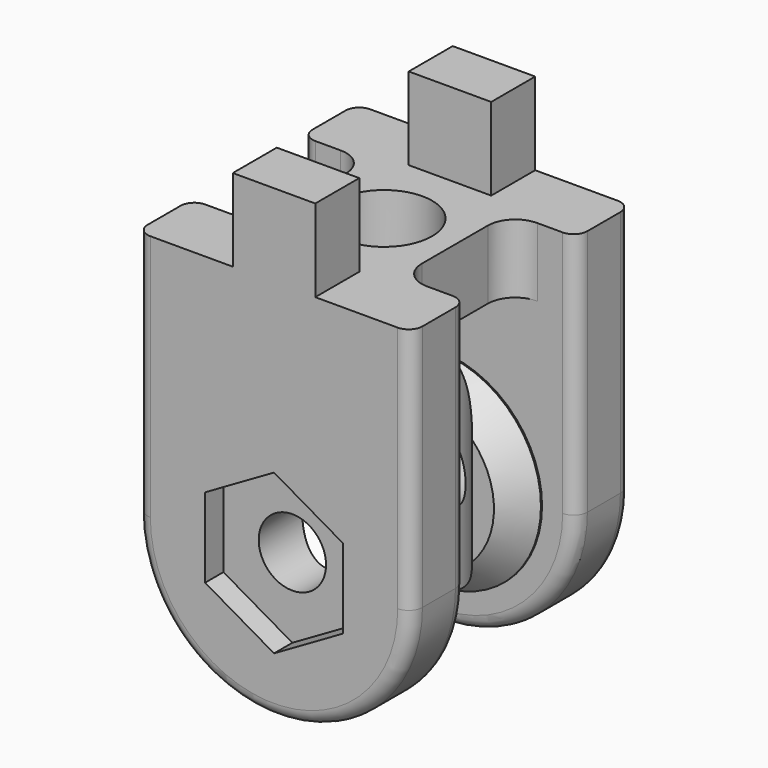
from build123d import *

# Parameters (mm, degrees)
CYLINDER006_R            = 2.45
CYLINDER006_DEPTH        = 1000
PRISM_DEPTH              = 5
CYLINDER005_R            = 5
CYLINDER005_DEPTH        = 1000
CYLINDER003_R            = 10
CYLINDER003_DEPTH        = 5
CYLINDER004_R            = 7.5
CYLINDER004_DEPTH        = 7
CUBE008_W                = 20
CUBE008_H                = 5
CUBE008_DEPTH            = 13
UNION001_PLACEMENT_ANGLE = 180
CYLINDER001_R            = 10
CYLINDER001_DEPTH        = 5
CYLINDER002_R            = 7.5
CYLINDER002_DEPTH        = 7
CUBE007_W                = 20
CUBE007_H                = 5
CUBE007_DEPTH            = 13
CUBE006_W                = 100
CUBE006_H                = 10
CUBE006_DEPTH            = 100
CUBE005_W                = 100
CUBE005_H                = 10
CUBE005_DEPTH            = 100
CUBE002_W                = 4
CUBE002_H                = 6
CUBE002_DEPTH            = 11
CUBE003_W                = 4
CUBE003_H                = 6
CUBE003_DEPTH            = 11
CUBE004_W                = 4
CUBE004_H                = 6
CUBE004_DEPTH            = 11
CUBE001_W                = 4
CUBE001_H                = 6
CUBE001_DEPTH            = 11
CYLINDER_R               = 3.5
CYLINDER_DEPTH           = 100
CUBE_W                   = 20
CUBE_H                   = 20
CUBE_DEPTH               = 5
CHAMFER_SIZE             = 1.9
CHAMFER001_SIZE          = 1.9
CHAMFER002_SIZE          = 1.9
CHAMFER003_SIZE          = 1.9
FILLET_R                 = 2
FILLET001_R              = 2
FILLET002_R              = 2
FILLET003_R              = 2
FILLET004_R              = 1
FILLET005_R              = 1
FILLET006_R              = 1
FILLET007_R              = 1


with BuildPart() as cylinder006:
    # cylinder006 → cylinder006 (new body)
    with BuildSketch(Plane(origin=(0, 500, -13), x_dir=(1, 0, 0), z_dir=(0, -1, 0))):
        Circle(CYLINDER006_R)
    extrude(amount=CYLINDER006_DEPTH)


with BuildPart() as prism:
    # prism → prism (new body)
    with BuildSketch(Plane(origin=(0, -8.33333, -13), x_dir=(0, 0, -1), z_dir=(0, -1, 0))):
        Polygon((5.79, 0), (2.895, 5.014287), (-2.895, 5.014287), (-5.79, 0), (-2.895, -5.014287), (2.895, -5.014287), align=None)
    extrude(amount=PRISM_DEPTH)


with BuildPart() as union002:
    # cylinder005 → cylinder005 (new body)
    with BuildSketch(Plane.XY.offset(-500)):
        Circle(CYLINDER005_R)
    extrude(amount=CYLINDER005_DEPTH)

    # union002: union cylinder006, prism
    add(cylinder006.part)
    add(prism.part)


with BuildPart() as cylinder003:
    # cylinder003 → cylinder003 (new body)
    with BuildSketch(Plane(origin=(0, 10, -13), x_dir=(1, 0, 0), z_dir=(0, -1, 0))):
        Circle(CYLINDER003_R)
    extrude(amount=CYLINDER003_DEPTH)


with BuildPart() as cylinder004:
    # cylinder004 → cylinder004 (new body)
    with BuildSketch(Plane(origin=(0, 10, -13), x_dir=(1, 0, 0), z_dir=(0, -1, 0))):
        Circle(CYLINDER004_R)
    extrude(amount=CYLINDER004_DEPTH)


with BuildPart() as union001:
    # cube008 → cube008 (new body)
    with BuildSketch(Plane(origin=(-10, -10, -13), x_dir=(1, 0, 0), z_dir=(0, 0, 1))):
        with Locations((10, 2.5)):
            Rectangle(CUBE008_W, CUBE008_H)
    extrude(amount=CUBE008_DEPTH)

    # union001: union cylinder003, cylinder004
    add(cylinder003.part)
    add(cylinder004.part)


with BuildPart() as union001_1:
    # union001 placement: moved
    add(union001.part.rotate(Axis((0, 0, 0), (0, 0, 1)), UNION001_PLACEMENT_ANGLE))


with BuildPart() as cylinder001:
    # cylinder001 → cylinder001 (new body)
    with BuildSketch(Plane(origin=(0, 10, -13), x_dir=(1, 0, 0), z_dir=(0, -1, 0))):
        Circle(CYLINDER001_R)
    extrude(amount=CYLINDER001_DEPTH)


with BuildPart() as cylinder002:
    # cylinder002 → cylinder002 (new body)
    with BuildSketch(Plane(origin=(0, 10, -13), x_dir=(1, 0, 0), z_dir=(0, -1, 0))):
        Circle(CYLINDER002_R)
    extrude(amount=CYLINDER002_DEPTH)


with BuildPart() as difference002:
    # cube007 → cube007 (new body)
    with BuildSketch(Plane(origin=(-10, -10, -13), x_dir=(1, 0, 0), z_dir=(0, 0, 1))):
        with Locations((10, 2.5)):
            Rectangle(CUBE007_W, CUBE007_H)
    extrude(amount=CUBE007_DEPTH)

    # union: union cylinder001, cylinder002
    add(cylinder001.part)
    add(cylinder002.part)

    # Group003: union union001
    add(union001_1.part)

    # difference002: cut union002
    add(union002.part, mode=Mode.SUBTRACT)


with BuildPart() as cube006:
    # cube006 → cube006 (new body)
    with BuildSketch(Plane(origin=(-5.15, 5, -50), x_dir=(-1, 0, 0), z_dir=(0, 0, 1))):
        with Locations((50, 5)):
            Rectangle(CUBE006_W, CUBE006_H)
    extrude(amount=CUBE006_DEPTH)


with BuildPart() as group002:
    # cube005 → cube005 (new body)
    with BuildSketch(Plane(origin=(5.15, -5, -50), x_dir=(1, 0, 0), z_dir=(0, 0, 1))):
        with Locations((50, 5)):
            Rectangle(CUBE005_W, CUBE005_H)
    extrude(amount=CUBE005_DEPTH)

    # Group002: union cube006
    add(cube006.part)


with BuildPart() as cube002:
    # cube002 → cube002 (new body)
    with BuildSketch(Plane(origin=(3, 6, 0), x_dir=(0, 1, 0), z_dir=(0, 0, 1))):
        with Locations((2, 3)):
            Rectangle(CUBE002_W, CUBE002_H)
    extrude(amount=CUBE002_DEPTH)


with BuildPart() as cube003:
    # cube003 → cube003 (new body)
    with BuildSketch(Plane(origin=(-6, 3, 0), x_dir=(-1, 0, 0), z_dir=(0, 0, 1))):
        with Locations((2, 3)):
            Rectangle(CUBE003_W, CUBE003_H)
    extrude(amount=CUBE003_DEPTH)


with BuildPart() as cube004:
    # cube004 → cube004 (new body)
    with BuildSketch(Plane(origin=(-3, -6, 0), x_dir=(0, -1, 0), z_dir=(0, 0, 1))):
        with Locations((2, 3)):
            Rectangle(CUBE004_W, CUBE004_H)
    extrude(amount=CUBE004_DEPTH)


with BuildPart() as group:
    # cube001 → cube001 (new body)
    with BuildSketch(Plane(origin=(6, -3, 0), x_dir=(1, 0, 0), z_dir=(0, 0, 1))):
        with Locations((2, 3)):
            Rectangle(CUBE001_W, CUBE001_H)
    extrude(amount=CUBE001_DEPTH)

    # Group: union cube002, cube003, cube004
    add(cube002.part)
    add(cube003.part)
    add(cube004.part)


with BuildPart() as cylinder:
    # cylinder → cylinder (new body)
    with BuildSketch(Plane.XY.offset(-50)):
        Circle(CYLINDER_R)
    extrude(amount=CYLINDER_DEPTH)


with BuildPart() as fillet007:
    # cube → cube (new body)
    with BuildSketch(Plane(origin=(-10, -10, 0), x_dir=(1, 0, 0), z_dir=(0, 0, 1))):
        with Locations((10, 10)):
            Rectangle(CUBE_W, CUBE_H)
    extrude(amount=CUBE_DEPTH)

    # difference: cut cylinder
    add(cylinder.part, mode=Mode.SUBTRACT)

    # Group001: union Group
    add(group.part)

    # difference001: cut Group002
    add(group002.part, mode=Mode.SUBTRACT)

    # Group004: union difference002
    add(difference002.part)

    # Chamfer
    chamfer_edges = [fillet007.edges().sort_by_distance(p)[0] for p in [
        (6.566963, 3, -9.377156),
    ]]
    chamfer(chamfer_edges, length=CHAMFER_SIZE)

    # Chamfer001
    chamfer001_edges = [fillet007.edges().sort_by_distance(p)[0] for p in [
        (7.5, -3, -13),
    ]]
    chamfer(chamfer001_edges, length=CHAMFER001_SIZE)

    # Chamfer002
    chamfer002_edges = [fillet007.edges().sort_by_distance(p)[0] for p in [
        (-6.566963, -3, -9.377156),
    ]]
    chamfer(chamfer002_edges, length=CHAMFER002_SIZE)

    # Chamfer003
    chamfer003_edges = [fillet007.edges().sort_by_distance(p)[0] for p in [
        (-7.5, 3, -13),
    ]]
    chamfer(chamfer003_edges, length=CHAMFER003_SIZE)

    # Fillet
    fillet_edges = [fillet007.edges().sort_by_distance(p)[0] for p in [
        (-5.15, 5, 2.5),
    ]]
    fillet(fillet_edges, radius=FILLET_R)

    # Fillet001
    fillet001_edges = [fillet007.edges().sort_by_distance(p)[0] for p in [
        (-5.15, -5, 2.5),
    ]]
    fillet(fillet001_edges, radius=FILLET001_R)

    # Fillet002
    fillet002_edges = [fillet007.edges().sort_by_distance(p)[0] for p in [
        (5.15, 5, 2.5),
    ]]
    fillet(fillet002_edges, radius=FILLET002_R)

    # Fillet003
    fillet003_edges = [fillet007.edges().sort_by_distance(p)[0] for p in [
        (5.15, -5, 2.5),
    ]]
    fillet(fillet003_edges, radius=FILLET003_R)

    # Fillet004
    fillet004_edges = [fillet007.edges().sort_by_distance(p)[0] for p in [
        (-10, 10, -4),
    ]]
    fillet(fillet004_edges, radius=FILLET004_R)

    # Fillet005
    fillet005_edges = [fillet007.edges().sort_by_distance(p)[0] for p in [
        (-10, -10, -4),
    ]]
    fillet(fillet005_edges, radius=FILLET005_R)

    # Fillet006
    fillet006_edges = [fillet007.edges().sort_by_distance(p)[0] for p in [
        (-10, -5, -4),
    ]]
    fillet(fillet006_edges, radius=FILLET006_R)

    # Fillet007
    fillet007_edges = [fillet007.edges().sort_by_distance(p)[0] for p in [
        (-10, 5, -4),
    ]]
    fillet(fillet007_edges, radius=FILLET007_R)


solid = fillet007.part
